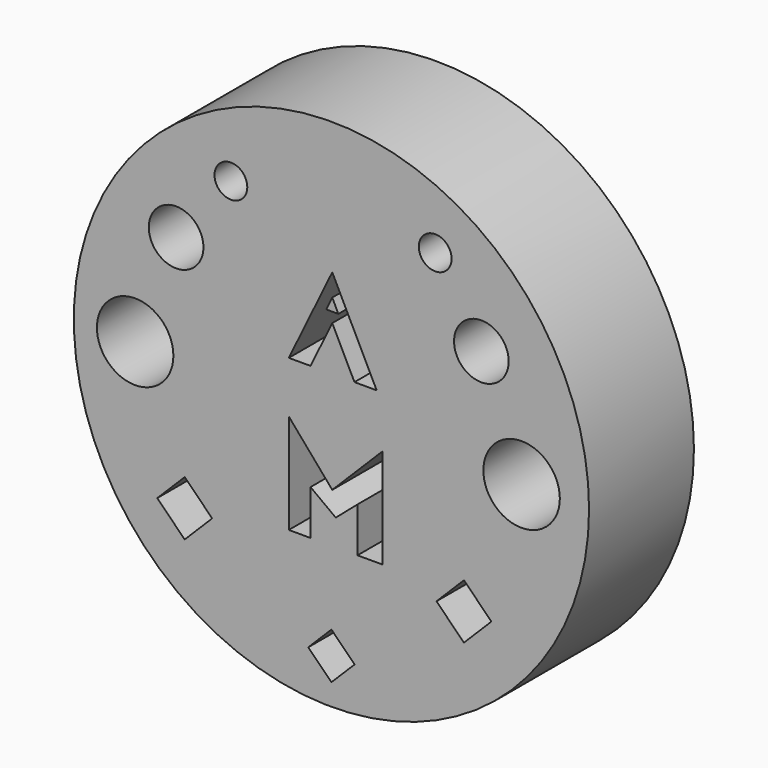
from build123d import *

# Parameters (mm, degrees)
F0_R     = 23.582491
F0_R_2   = 3.5
F0_R_3   = 2.5
F0_R_4   = 1.5
F1_DEPTH = 12


with BuildPart() as f1:
    # F0 (on Front) → F1 (new body)
    with BuildSketch(Plane.XZ):
        with Locations((0.075632, 2.719987)):
            Circle(F0_R)
        Polygon((-15.87052, -9.226178), (-13.356048, -6.711706), (-10.841576, -9.226178), (-13.356048, -11.74065), align=None, mode=Mode.SUBTRACT)
        Polygon((-2.048615, -16.752557), (0.075632, -14.62831), (2.199879, -16.752557), (0.075632, -18.876803), align=None, mode=Mode.SUBTRACT)
        Polygon((12.205255, -11.74065), (9.690783, -9.226178), (12.205255, -6.711706), (14.719727, -9.226178), align=None, mode=Mode.SUBTRACT)
        Polygon((-3.826466, -7.873054), (-3.826466, 1.270946), (0.151318, -3.34841), (4.770674, 1.270946), (4.770674, -7.873054), (2.460996, -7.873054), (2.460996, -3.770399), (0.472104, -5.483057), (-1.837574, -3.770399), (-1.837574, -7.873054), align=None, mode=Mode.SUBTRACT)
        with Locations((-17.892264, 2.719987)):
            Circle(F0_R_2, mode=Mode.SUBTRACT)
        with Locations((-14.142166, 12.351425)):
            Circle(F0_R_3, mode=Mode.SUBTRACT)
        with Locations((-9.126982, 18.514041)):
            Circle(F0_R_4, mode=Mode.SUBTRACT)
        Polygon((-3.826466, 5.99293), (0.151318, 14.184184), (4.215318, 5.99293), (2.183318, 5.99293), (0.151318, 10.088557), (-1.837574, 5.99293), align=None, mode=Mode.SUBTRACT)
        with Locations((17.48183, 2.719987)):
            Circle(F0_R_2, mode=Mode.SUBTRACT)
        with Locations((13.797834, 12.252635)):
            Circle(F0_R_3, mode=Mode.SUBTRACT)
        with Locations((9.574039, 18.821931)):
            Circle(F0_R_4, mode=Mode.SUBTRACT)
        Polygon((0.706093, 11.009061), (0.151318, 12.151482), (-0.403457, 11.009061), align=None)
    extrude(amount=F1_DEPTH)


solid = f1.part
